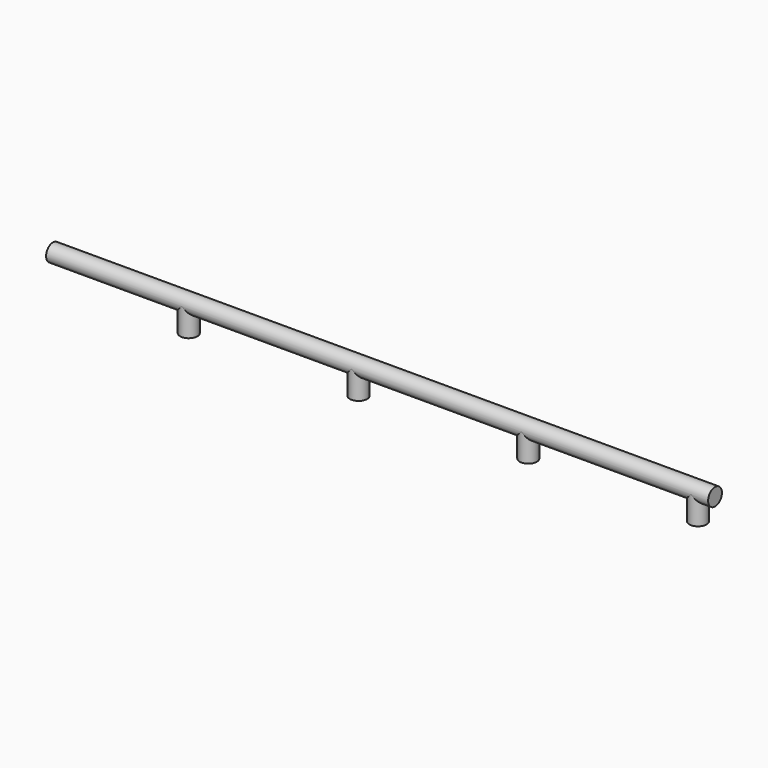
from build123d import *

# Parameters (mm, degrees)
F0_R      = 12.7
F1_DEPTH  = 1200
F2_R      = 12.7
F3_DEPTH  = 40
F1_FACE_R = 12.7
F4_DEPTH  = 225


with BuildPart() as f1:
    # F0 (on Right) → F1 (new body)
    with BuildSketch(Plane.YZ):
        Circle(F0_R)
    extrude(amount=-F1_DEPTH)

    # F2 (on Top) → F3 (join)
    with BuildSketch(Plane.XY):
        with Locations((-250, 0)):
            Circle(F2_R)
        with Locations((-500, 0)):
            Circle(F2_R)
        with Locations((-750, 0)):
            Circle(F2_R)
        with Locations((-1000, 0)):
            Circle(F2_R)
    extrude(amount=-F3_DEPTH)

    # F1_face (on face) → F4 (cut)
    with BuildSketch(Plane.YZ):
        Circle(F1_FACE_R)
    extrude(amount=-F4_DEPTH, mode=Mode.SUBTRACT)


solid = f1.part
